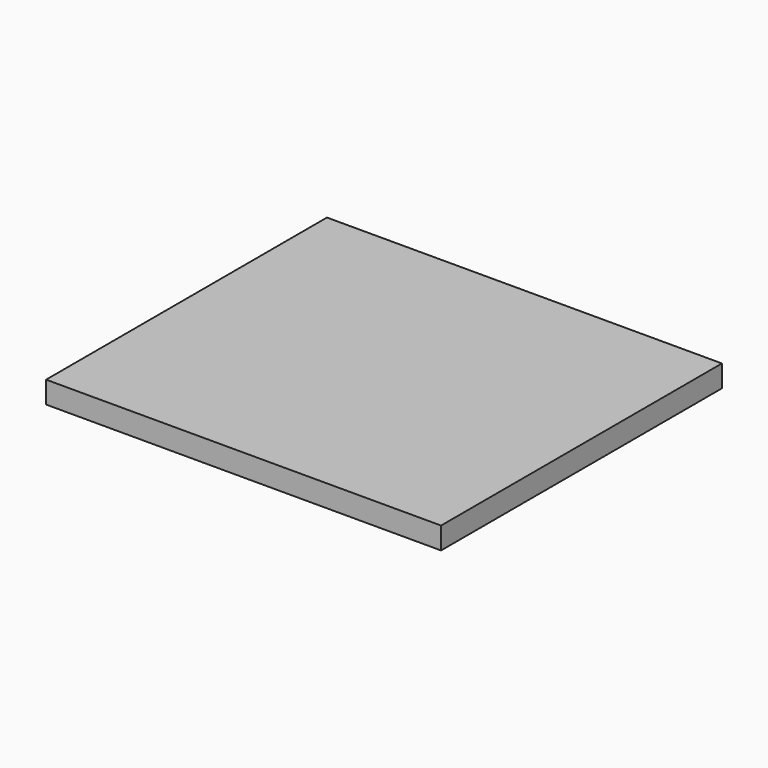
from build123d import *

# Parameters (mm, degrees)
SKETCH_W  = 180
SKETCH_H  = 160
PAD_DEPTH = 10


with BuildPart() as part:
    # Sketch → Pad (new body)
    with BuildSketch(Plane.XY):
        with Locations((-90, 80)):
            Rectangle(SKETCH_W, SKETCH_H)
    extrude(amount=PAD_DEPTH)


solid = part.part
